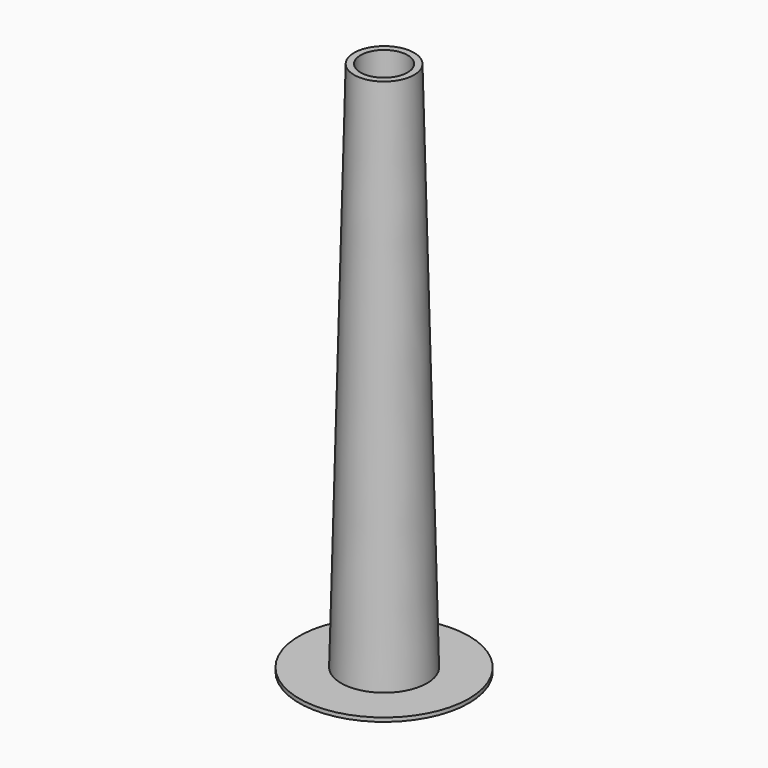
from build123d import *

# Parameters (mm, degrees)
F0_R     = 3.3
F2_R     = 2.3
F4_R     = 1.8
F5_DEPTH = 41.0010001
F6_R     = 6.5
F7_DEPTH = 0.3


with BuildPart() as f3:
    # F0 (on Top) → F3 section 0
    with BuildSketch(Plane.XY):
        Circle(F0_R)
    # F2 (on offset) → F3 section 1
    with BuildSketch(Plane.XY.offset(41)):
        Circle(F2_R)
    loft()

    # F4 (on face) → F5 (cut, through all)
    with BuildSketch(Plane.XY.offset(41)):
        Circle(F4_R)
    extrude(amount=-F5_DEPTH, mode=Mode.SUBTRACT)

    # F6 (on face) → F7 (join)
    with BuildSketch(Plane(origin=(0, 0, 0), x_dir=(1, 0, 0), z_dir=(0, 0, -1))):
        Circle(F6_R)
    extrude(amount=-F7_DEPTH)


solid = f3.part
